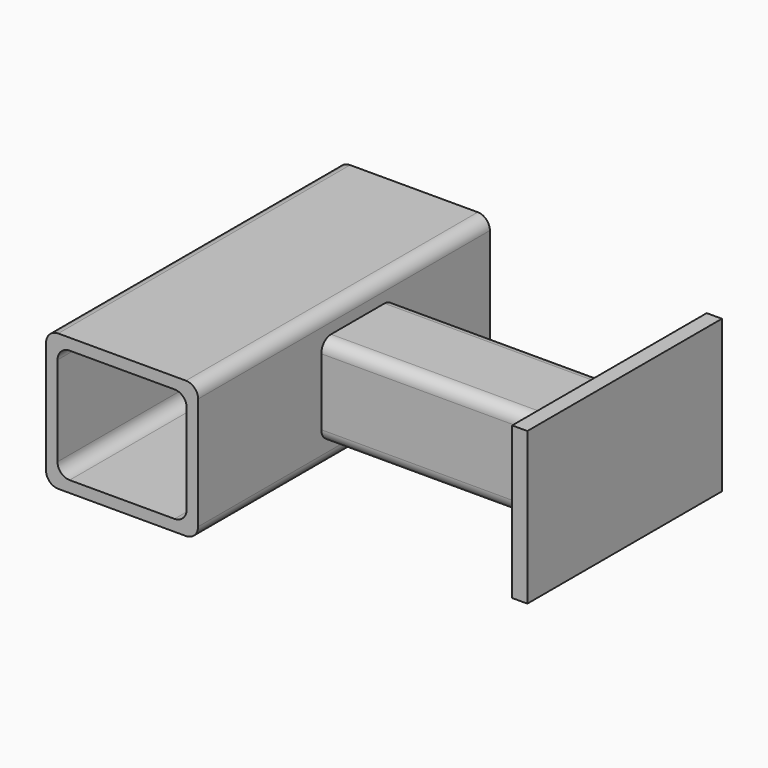
from build123d import *

# Parameters (mm, degrees)
F1_DEPTH = 152.4
F3_DEPTH = 101.6
F5_W     = 101.6
F5_H     = 63.5
F6_DEPTH = 6.35


with BuildPart() as f1:
    # F0 (on Front) → F1 (new body)
    with BuildSketch(Plane.XZ):
        with BuildLine():
            Line((-26.67, -28.575), (26.67, -28.575))
            ThreePointArc((26.67, -28.575), (30.2621024484, -27.0871024484), (31.75, -23.495))
            Line((31.75, -23.495), (31.75, 23.495))
            ThreePointArc((31.75, 23.495), (30.2621024484, 27.0871024484), (26.67, 28.575))
            Line((26.67, 28.575), (-26.67, 28.575))
            ThreePointArc((-26.67, 28.575), (-30.2621024484, 27.0871024484), (-31.75, 23.495))
            Line((-31.75, 23.495), (-31.75, -23.495))
            ThreePointArc((-31.75, -23.495), (-30.2621024484, -27.0871024484), (-26.67, -28.575))
        make_face()
        with BuildLine():
            Line((-21.9075, 23.8125), (21.9075, 23.8125))
            ThreePointArc((21.9075, 23.8125), (25.4996024484, 22.3246024484), (26.9875, 18.7325))
            Line((26.9875, 18.7325), (26.9875, -18.7325))
            ThreePointArc((26.9875, -18.7325), (25.4996024484, -22.3246024484), (21.9075, -23.8125))
            Line((21.9075, -23.8125), (-21.9075, -23.8125))
            ThreePointArc((-21.9075, -23.8125), (-25.4996024484, -22.3246024484), (-26.9875, -18.7325))
            Line((-26.9875, -18.7325), (-26.9875, 18.7325))
            ThreePointArc((-26.9875, 18.7325), (-25.4996024484, 22.3246024484), (-21.9075, 23.8125))
        make_face(mode=Mode.SUBTRACT)
    extrude(amount=-F1_DEPTH)

    # F2 (on face) → F3 (join)
    with BuildSketch(Plane.YZ.offset(31.75)):
        with BuildLine():
            Line((69.4262681528, -19.05), (97.3662681528, -19.05))
            ThreePointArc((97.3662681528, -19.05), (100.9583706013, -17.5621024484), (102.4462681528, -13.97))
            Line((102.4462681528, -13.97), (102.4462681528, 13.97))
            ThreePointArc((102.4462681528, 13.97), (100.9583706013, 17.5621024484), (97.3662681528, 19.05))
            Line((97.3662681528, 19.05), (69.4262681528, 19.05))
            ThreePointArc((69.4262681528, 19.05), (65.8341657044, 17.5621024484), (64.3462681528, 13.97))
            Line((64.3462681528, 13.97), (64.3462681528, -13.97))
            ThreePointArc((64.3462681528, -13.97), (65.8341657044, -17.5621024484), (69.4262681528, -19.05))
        make_face()
        with BuildLine():
            ThreePointArc((69.9342681528, -16.002), (68.1382169286, -15.2580512242), (67.3942681528, -13.462))
            Line((67.3942681528, -13.462), (67.3942681528, 13.462))
            ThreePointArc((67.3942681528, 13.462), (68.1382169286, 15.2580512242), (69.9342681528, 16.002))
            Line((69.9342681528, 16.002), (96.8582681528, 16.002))
            ThreePointArc((96.8582681528, 16.002), (98.6543193771, 15.2580512242), (99.3982681528, 13.462))
            Line((99.3982681528, 13.462), (99.3982681528, -13.462))
            ThreePointArc((99.3982681528, -13.462), (98.6543193771, -15.2580512242), (96.8582681528, -16.002))
            Line((96.8582681528, -16.002), (69.9342681528, -16.002))
        make_face(mode=Mode.SUBTRACT)
    extrude(amount=F3_DEPTH)

    # F4 (on face) + F5 (on face) → F6 (join)
    with BuildSketch(Plane.YZ.offset(133.35)):
        with BuildLine():
            ThreePointArc((64.3462681528, -13.97), (65.8341657044, -17.5621024484), (69.4262681528, -19.05))
            Line((69.4262681528, -19.05), (97.3662681528, -19.05))
            ThreePointArc((97.3662681528, -19.05), (100.9583706013, -17.5621024484), (102.4462681528, -13.97))
            Line((102.4462681528, -13.97), (102.4462681528, 13.97))
            ThreePointArc((102.4462681528, 13.97), (100.9583706013, 17.5621024484), (97.3662681528, 19.05))
            Line((97.3662681528, 19.05), (69.4262681528, 19.05))
            ThreePointArc((69.4262681528, 19.05), (65.8341657044, 17.5621024484), (64.3462681528, 13.97))
            Line((64.3462681528, 13.97), (64.3462681528, -13.97))
        make_face()
        with BuildLine():
            ThreePointArc((99.3982681528, -13.462), (98.6543193771, -15.2580512242), (96.8582681528, -16.002))
            Line((96.8582681528, -16.002), (69.9342681528, -16.002))
            ThreePointArc((69.9342681528, -16.002), (68.1382169286, -15.2580512242), (67.3942681528, -13.462))
            Line((67.3942681528, -13.462), (67.3942681528, 13.462))
            ThreePointArc((67.3942681528, 13.462), (68.1382169286, 15.2580512242), (69.9342681528, 16.002))
            Line((69.9342681528, 16.002), (96.8582681528, 16.002))
            ThreePointArc((96.8582681528, 16.002), (98.6543193771, 15.2580512242), (99.3982681528, 13.462))
            Line((99.3982681528, 13.462), (99.3982681528, -13.462))
        make_face(mode=Mode.SUBTRACT)
        with BuildLine():
            Line((69.9342681528, -16.002), (96.8582681528, -16.002))
            ThreePointArc((96.8582681528, -16.002), (98.6543193771, -15.2580512242), (99.3982681528, -13.462))
            Line((99.3982681528, -13.462), (99.3982681528, 13.462))
            ThreePointArc((99.3982681528, 13.462), (98.6543193771, 15.2580512242), (96.8582681528, 16.002))
            Line((96.8582681528, 16.002), (69.9342681528, 16.002))
            ThreePointArc((69.9342681528, 16.002), (68.1382169286, 15.2580512242), (67.3942681528, 13.462))
            Line((67.3942681528, 13.462), (67.3942681528, -13.462))
            ThreePointArc((67.3942681528, -13.462), (68.1382169286, -15.2580512242), (69.9342681528, -16.002))
        make_face()
    with BuildSketch(Plane.YZ.offset(133.35)):
        with Locations((87.8347480977, 0)):
            Rectangle(F5_W, F5_H)
        with BuildLine():
            ThreePointArc((102.4462681528, -13.97), (100.9583706013, -17.5621024484), (97.3662681528, -19.05))
            Line((97.3662681528, -19.05), (69.4262681528, -19.05))
            ThreePointArc((69.4262681528, -19.05), (65.8341657044, -17.5621024484), (64.3462681528, -13.97))
            Line((64.3462681528, -13.97), (64.3462681528, 13.97))
            ThreePointArc((64.3462681528, 13.97), (65.8341657044, 17.5621024484), (69.4262681528, 19.05))
            Line((69.4262681528, 19.05), (97.3662681528, 19.05))
            ThreePointArc((97.3662681528, 19.05), (100.9583706013, 17.5621024484), (102.4462681528, 13.97))
            Line((102.4462681528, 13.97), (102.4462681528, -13.97))
        make_face(mode=Mode.SUBTRACT)
    extrude(amount=F6_DEPTH)


solid = f1.part
